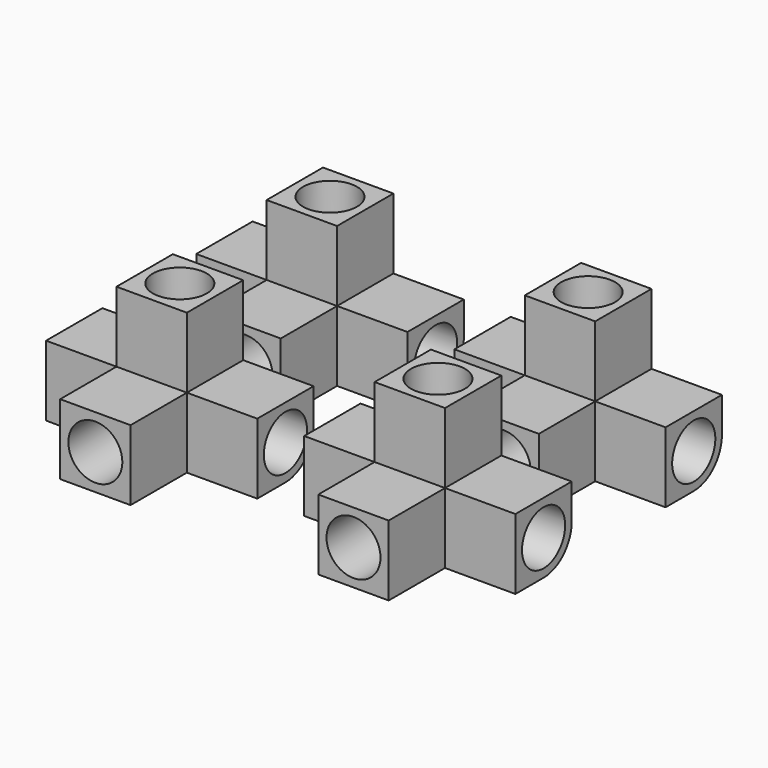
from build123d import *

# Parameters (mm, degrees)
F0_W      = 30
F0_H      = 30
F1_DEPTH  = 30
F2_DEPTH  = 60
F3_R      = 11.5
F7_DEPTH  = 30
F5_R      = 11.5
F8_DEPTH  = 30
F4_R      = 11.5
F9_DEPTH  = 30
F6_R      = 11.5
F10_DEPTH = 30
F11_R     = 15


with BuildPart() as f1:
    # F0 (on Top) → F1 (new body)
    with BuildSketch(Plane.XY):
        with Locations((-30, 0)):
            Rectangle(F0_W, F0_H)
    extrude(amount=F1_DEPTH)



with BuildPart() as f1b:
    # F0 (on Top) → F1, piece 2 (new body)
    with BuildSketch(Plane.XY):
        Polygon((15, -45), (15, -15), (-15, -15), (-15, -45), (0, -45), align=None)
    extrude(amount=F1_DEPTH)


with BuildPart() as f1c:
    # F0 (on Top) → F1, piece 3 (new body)
    with BuildSketch(Plane.XY):
        with Locations((30, 0)):
            Rectangle(F0_W, F0_H)
    extrude(amount=F1_DEPTH)


with BuildPart() as f1_1:
    add(f1.part)

    add(f1b.part)  # F2 merges F1b

    add(f1c.part)  # F2 merges F1c
    # F0 (on Top) → F2 (join)
    with BuildSketch(Plane.XY):
        Rectangle(F0_W, F0_H)
    extrude(amount=F2_DEPTH)

    # F3 (on face) → F7 (cut)
    with BuildSketch(Plane.XY.offset(60)):
        Circle(F3_R)
    extrude(amount=-F7_DEPTH, mode=Mode.SUBTRACT)

    # F5 (on face) → F8 (cut)
    with BuildSketch(Plane(origin=(-45, 0, 0), x_dir=(0, -1, 0), z_dir=(-1, 0, 0))):
        with Locations((0, 15)):
            Circle(F5_R)
    extrude(amount=-F8_DEPTH, mode=Mode.SUBTRACT)

    # F4 (on face) → F9 (cut)
    with BuildSketch(Plane.XZ.offset(45)):
        with Locations((0, 15)):
            Circle(F4_R)
    extrude(amount=-F9_DEPTH, mode=Mode.SUBTRACT)

    # F6 (on face) → F10 (cut)
    with BuildSketch(Plane.YZ.offset(45)):
        with Locations((0, 15)):
            Circle(F6_R)
    extrude(amount=-F10_DEPTH, mode=Mode.SUBTRACT)

    # F11
    f11_edges = [f1_1.edges().sort_by_distance(p)[0] for p in [
        (0, 15, 0),
    ]]
    fillet(f11_edges, radius=F11_R)


with BuildPart() as f12_1:
    # F12: copy of F1
    add(f1_1.part.moved(Location((110, 0, 0))))


with BuildPart() as f13_1:
    # F13: copy of F1
    add(f1_1.part.moved(Location((0, 80, 0))))


with BuildPart() as f14_1:
    # F14: copy of F1
    add(f1_1.part.moved(Location((110, 80, 0))))


solid = Compound([f1_1.part, f12_1.part, f13_1.part, f14_1.part])
